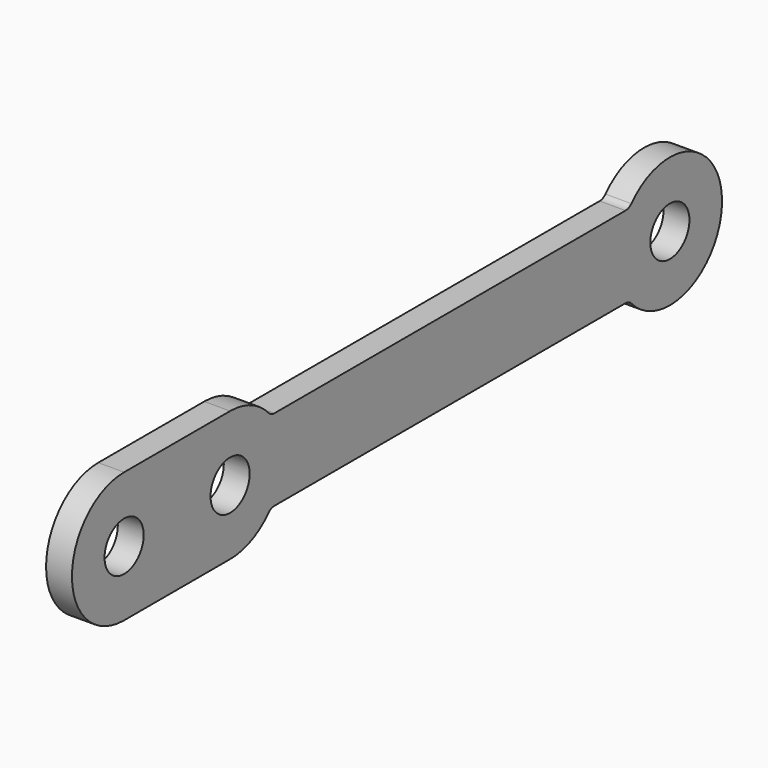
from build123d import *

# Parameters (mm, degrees)
SKETCH_R  = 3
PAD_DEPTH = 3.175


with BuildPart() as part:
    # Sketch (on Face26 of Binder) → Pad (new body)
    with BuildSketch(Plane.YZ.offset(-1.8542)):
        with BuildLine():
            ThreePointArc((56.923, -48.25), (48.923, -56.25), (56.923, -64.25))
            Line((56.923, -64.25), (73.177, -64.25))
            ThreePointArc((73.177, -64.25), (76.407291, -63.568826), (79.087485, -61.641304))
            ThreePointArc((79.974058, -61.25), (79.489514, -61.352176), (79.087485, -61.641304))
            Line((79.974058, -61.25), (133.829942, -61.25))
            ThreePointArc((134.716515, -61.641304), (134.314486, -61.352176), (133.829942, -61.25))
            ThreePointArc((134.716515, -61.641304), (148.627, -56.25), (134.716515, -50.858696))
            ThreePointArc((133.829942, -51.25), (134.314486, -51.147824), (134.716515, -50.858696))
            Line((79.974058, -51.25), (133.829942, -51.25))
            ThreePointArc((79.087485, -50.858696), (79.489514, -51.147824), (79.974058, -51.25))
            ThreePointArc((79.087485, -50.858696), (76.407291, -48.931174), (73.177, -48.25))
            Line((56.923, -48.25), (73.177, -48.25))
        make_face()
        with Locations((56.923, -56.25)):
            Circle(SKETCH_R, mode=Mode.SUBTRACT)
        with Locations((73.177, -56.25)):
            Circle(SKETCH_R, mode=Mode.SUBTRACT)
        with Locations((140.627, -56.25)):
            Circle(SKETCH_R, mode=Mode.SUBTRACT)
    extrude(amount=-PAD_DEPTH)


solid = part.part
